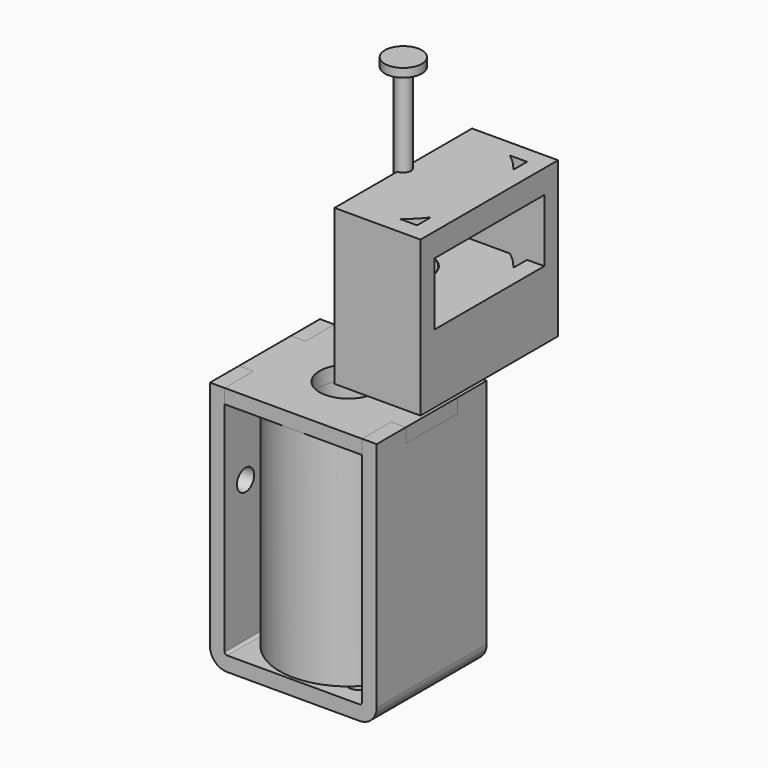
from build123d import *

# Parameters (mm, degrees)
F1_DEPTH       = 16
F2_R           = 3.35
F3_DEPTH       = 1.66
F4_DEPTH       = 1.66
F5_R           = 8
F5_R_2         = 3.35
F6_DEPTH       = 25.4
F7_R           = 1.25
F8_DEPTH       = 25
F9_D           = 2.5
F9_DEPTH       = 20
F9_TIP         = 0.7510757738
F11_D          = 2.5
F11_DEPTH      = 3
F11_TIP        = 0.7510757738
F14_SIZE       = 0.3
F15_R          = 2
F15_R_2        = 1
F16_DEPTH      = 28.1290921126
F18_ANGLE_BACK = 90
F18_ANGLE      = 180
F20_DEPTH      = 18.031937292
F22_DEPTH      = 25


with BuildPart() as f1:
    # F0 (on Front) → F1 (new body)
    with BuildSketch(Plane.XZ):
        with BuildLine():
            Line((-8, 29), (-9.7, 29))
            Line((-9.7, 29), (-9.7, 2))
            ThreePointArc((-9.7, 2), (-9.1142135624, 0.5857864376), (-7.7, 0))
            Line((-7.7, 0), (7.7, 0))
            ThreePointArc((7.7, 0), (9.1142135624, 0.5857864376), (9.7, 2))
            Line((9.7, 2), (9.7, 29))
            Line((9.7, 29), (8, 29))
            Line((8, 29), (8, 2))
            ThreePointArc((8, 2), (7.9121320344, 1.7878679656), (7.7, 1.7))
            Line((7.7, 1.7), (-7.7, 1.7))
            ThreePointArc((-7.7, 1.7), (-7.9121320344, 1.7878679656), (-8, 2))
            Line((-8, 2), (-8, 29))
        make_face()
    extrude(amount=F1_DEPTH)

    # F2 (on face) → F3 (cut)
    with BuildSketch(Plane.XY.offset(29)):
        Polygon((8, 0), (-8, 0), (-8, -4.23), (-9.7, -4.23), (-9.7, -11.77), (-8, -11.77), (-8, -16), (8, -16), (8, -11.77), (9.7, -11.77), (9.7, -4.23), (8, -4.23), align=None)
        with Locations((0, -8)):
            Circle(F2_R, mode=Mode.SUBTRACT)
    extrude(amount=-F3_DEPTH, mode=Mode.SUBTRACT)

    # F7 (on face) → F8 (cut)
    with BuildSketch(Plane(origin=(0, 0, 0), x_dir=(1, 0, 0), z_dir=(0, 0, -1))):
        with Locations((0, 8)):
            Circle(F7_R)
    extrude(amount=-F8_DEPTH, mode=Mode.SUBTRACT)

    # F9
    with Locations(Plane(origin=(0, 0, 0), x_dir=(1, 0, 0), z_dir=(0, 0, -1))):
        with Locations((-5.15, 3.05), (5.15, 12.85)):
            Hole(F9_D / 2, depth=F9_DEPTH)
            with Locations((0, 0, -(F9_DEPTH + F9_TIP / 2))):  # 118° drill point
                Cone(0, F9_D / 2, F9_TIP, mode=Mode.SUBTRACT)

    # F11
    with Locations(Plane(origin=(-9.7, 0, 0), x_dir=(0, -1, 0), z_dir=(-1, 0, 0))):
        with Locations((12.95, 18.35), (3.05, 6.55)):
            Hole(F11_D / 2, depth=F11_DEPTH)
            with Locations((0, 0, -(F11_DEPTH + F11_TIP / 2))):  # 118° drill point
                Cone(0, F11_D / 2, F11_TIP, mode=Mode.SUBTRACT)


with BuildPart() as f4:
    # F2 (on face) → F4 (new body)
    with BuildSketch(Plane.XY.offset(29)):
        Polygon((8, 0), (-8, 0), (-8, -4.23), (-9.7, -4.23), (-9.7, -11.77), (-8, -11.77), (-8, -16), (8, -16), (8, -11.77), (9.7, -11.77), (9.7, -4.23), (8, -4.23), align=None)
        with Locations((0, -8)):
            Circle(F2_R, mode=Mode.SUBTRACT)
    extrude(amount=-F4_DEPTH)


with BuildPart() as f6:
    # F5 (on face) → F6 (new body)
    with BuildSketch(Plane(origin=(0, 0, 27.34), x_dir=(1, 0, 0), z_dir=(0, 0, -1))):
        with Locations((0, 8)):
            Circle(F5_R)
        with Locations((0, 8)):
            Circle(F5_R_2, mode=Mode.SUBTRACT)
    extrude(amount=F6_DEPTH)


with BuildPart() as f13:
    # F12 (on Front) → F13 (revolve)
    with BuildSketch(Plane.XZ):
        Polygon((3.175, 36.5735277546), (3.175, 37.5735277546), (2, 37.5735277546), (2, 9.444435642), (2.2, 9.444435642), (3.175, 12.7735277546), (3.175, 34.5735277546), (2.675, 34.5735277546), (2.675, 35.0735277546), (3.175, 35.0735277546), (3.175, 36.0735277546), (2.675, 36.0735277546), (2.675, 36.5735277546), align=None)
    revolve(axis=Axis((0, 0, 10.4351034914), (0, 0, -1)))

    # F14
    f14_edges = [f13.edges().sort_by_distance(p)[0] for p in [
        (-2, 0, 37.573528),
    ]]
    chamfer(f14_edges, length=F14_SIZE)


with BuildPart() as f16:
    # F15 (on face) → F16 (new body, through all)
    with BuildSketch(Plane.XY.offset(37.5735277546)):
        Circle(F15_R)
        Circle(F15_R_2, mode=Mode.SUBTRACT)
    extrude(amount=-F16_DEPTH)


with BuildPart() as f18:
    # F17 (on Front) → F18 (revolve)
    with BuildSketch(Plane.XZ, mode=Mode.PRIVATE) as f18_sk:
        Polygon((7, 29.582431526), (10, 29.582431526), (10, 47.614368818), (0, 47.614368818), (0, 44.8717847466), (8.8035967201, 44.8717847466), (8.8035967201, 37.5735277546), (3.2267942205, 37.5735277546), (3.2267942205, 36.5735277546), (2.7267942205, 36.5735277546), (2.7267942205, 36.1735277546), (3.2267942205, 36.1735277546), (3.2267942205, 35.0903756917), (7, 35.0903756917), align=None)
    revolve(f18_sk.sketch.rotate(Axis((0, 0, 46.2430767823), (0, 0, -1)), -F18_ANGLE_BACK), axis=Axis((0, 0, 46.2430767823), (0, 0, -1)), revolution_arc=F18_ANGLE)

    # F19 (on face) → F20 (join, through all)
    with BuildSketch(Plane.XY.offset(47.614368818)):
        Polygon((0, -8), (0, -10), (10, -10), (10, 10), (0, 10), (0, 8), (8, 8), (8, -8), align=None)
    extrude(amount=-F20_DEPTH)

    # F21 (on face) → F22 (cut)
    with BuildSketch(Plane(origin=(0, 0, 0), x_dir=(0, -1, 0), z_dir=(-1, 0, 0))):
        Polygon((8, 37.5735277546), (8, 44.8717847466), (-8, 44.8717847466), (-8, 37.5735277546), (-3.2267942205, 37.5735277546), (3.2267942205, 37.5735277546), align=None)
    extrude(amount=-F22_DEPTH, mode=Mode.SUBTRACT)


with BuildPart() as f24:
    # F23 (on Right) → F24 (revolve)
    with BuildSketch(Plane.YZ):
        with BuildLine():
            ThreePointArc((-0.875, 1), (-0.625, 0.3385621722), (0, 0.0078432584))
            Line((0, 0.0078432584), (0, 59))
            Line((0, 59), (-2.1502888195, 59))
            Line((-2.1502888195, 59), (-2.1502888195, 58))
            Line((-2.1502888195, 58), (-0.875, 58))
            Line((-0.875, 58), (-0.875, 1))
        make_face()
    revolve(axis=Axis((0, 0, 29.5), (0, 0, -1)))


with BuildPart() as f24b:
    # F23 (on Right) → F24, piece 2 (revolve)
    with BuildSketch(Plane.YZ):
        with BuildLine():
            Line((0, 0), (0.125, 0))
            ThreePointArc((0.125, 0), (0.0623770875, 0.0019627408), (0, 0.0078432584))
            Line((0, 0.0078432584), (0, 0))
        make_face()
    revolve(axis=Axis((0, 0, 29.5), (0, 0, -1)))


solid = Compound([f1.part, f4.part, f6.part, f13.part, f16.part, f18.part, f24.part, f24b.part])
